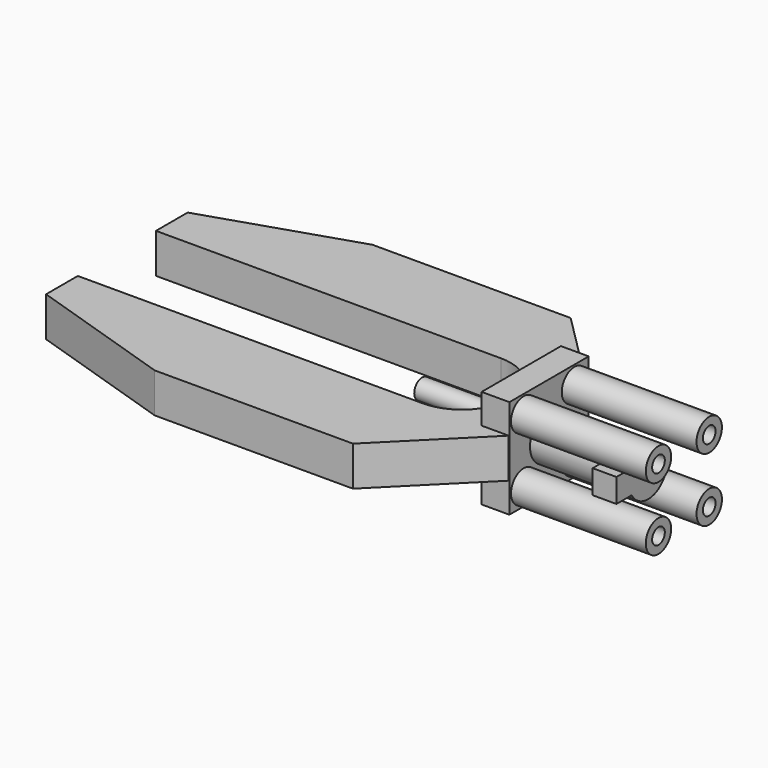
from build123d import *

# Parameters (mm, degrees)
F0_W      = 50
F0_H      = 22
F1_DEPTH  = 5
F2_W      = 25
F2_H      = 25
F3_DEPTH  = 7
F4_R      = 6
F5_DEPTH  = 25
F6_R      = 4
F7_DEPTH  = 34
F8_R      = 2
F9_DEPTH  = 10
F10_R     = 2.5
F11_DEPTH = 25
F12_W     = 6
F12_H     = 6
F13_DEPTH = 10


with BuildPart() as f1:
    # F0 (on Top) → F1 (new body, symmetric)
    with BuildSketch(Plane.XY):
        with Locations((-25, 23.3168965802)):
            Rectangle(F0_W, F0_H)
        Polygon((-50, 12.3168965802), (-50, 34.3168965802), (-87, 22.3168965802), (-87, 12.3168965802), align=None)
        Polygon((22, 12.3168965802), (0, 34.3168965802), (0, 12.3168965802), align=None)
        with BuildLine():
            Line((22, 12.3168965802), (0, 12.3168965802))
            ThreePointArc((0, 12.3168965802), (8.709361095, 8.709361095), (12.3168965802, 0))
            Line((12.3168965802, 0), (22, 0))
            Line((22, 0), (22, 12.3168965802))
        make_face()
        with BuildLine():
            Line((22, 0), (12.3168965802, 0))
            ThreePointArc((12.3168965802, 0), (8.709361095, -8.709361095), (0, -12.3168965802))
            Line((0, -12.3168965802), (22, -12.3168965802))
            Line((22, -12.3168965802), (22, 0))
        make_face()
        Polygon((22, -12.3168965802), (0, -12.3168965802), (-50, -12.3168965802), (-87, -12.3168965802), (-87, -22.3168965802), (-50, -34.3168965802), (0, -34.3168965802), align=None)
    extrude(amount=F1_DEPTH, both=True)

    # F2 (on face) → F3 (join)
    with BuildSketch(Plane.YZ.offset(22)):
        Rectangle(F2_W, F2_H)
    extrude(amount=-F3_DEPTH)

    # F4 (on face) → F5 (join)
    with BuildSketch(Plane.YZ.offset(22)):
        Circle(F4_R)
    extrude(amount=F5_DEPTH)

    # F6 (on face) → F7 (join)
    with BuildSketch(Plane.YZ.offset(22)):
        with Locations((8, 8)):
            Circle(F6_R)
        with Locations((-8, 8)):
            Circle(F6_R)
        with Locations((8, -8)):
            Circle(F6_R)
        with Locations((-8, -8)):
            Circle(F6_R)
    extrude(amount=F7_DEPTH)

    # F8 (on face) → F9 (cut)
    with BuildSketch(Plane.YZ.offset(56)):
        with Locations((8, 8)):
            Circle(F8_R)
        with Locations((-8, 8)):
            Circle(F8_R)
        with Locations((8, -8)):
            Circle(F8_R)
        with Locations((-8, -8)):
            Circle(F8_R)
    extrude(amount=-F9_DEPTH, mode=Mode.SUBTRACT)

    # F10 (on face) → F11 (join)
    with BuildSketch(Plane(origin=(15, 0, 0), x_dir=(0, -1, 0), z_dir=(-1, 0, 0))):
        Circle(F10_R)
    extrude(amount=F11_DEPTH)

    # F12 (on Front) → F13 (join)
    with BuildSketch(Plane.XZ):
        with Locations((44, 0)):
            Rectangle(F12_W, F12_H)
    extrude(amount=F13_DEPTH)


solid = f1.part
